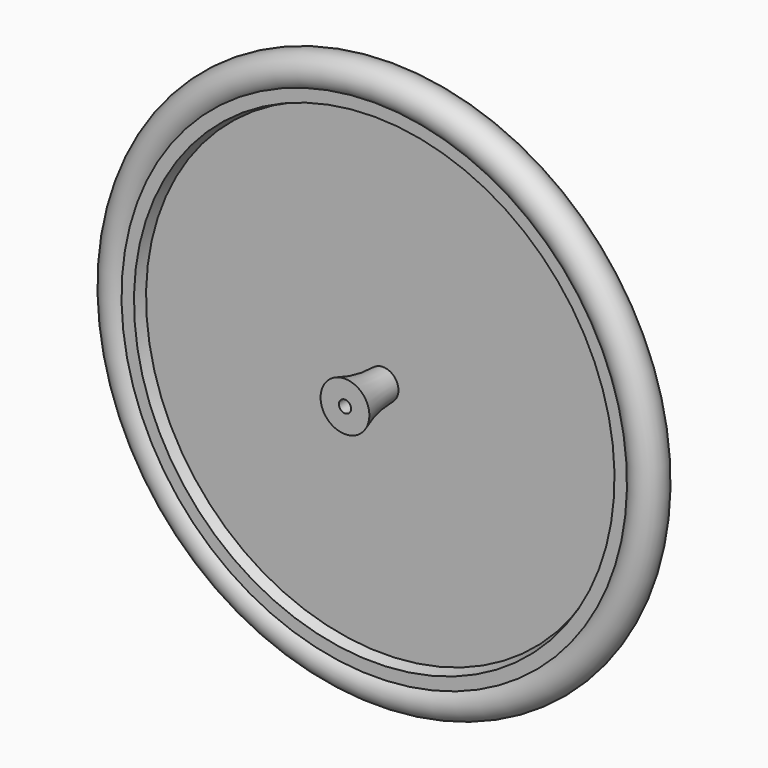
from build123d import *


with BuildPart() as f1:
    # F0 (on Right) → F1 (revolve)
    with BuildSketch(Plane.YZ):
        with BuildLine():
            Line((10, 197), (10, 207.202041))
            ThreePointArc((10, 207.202041), (0, 231), (-10, 207.202041))
            Line((-10, 207.202041), (-10, 197))
            Line((-10, 197), (-1, 194.3))
            Line((-1, 194.3), (-1, 12.658382))
            ThreePointArc((-1, 12.658382), (-20.826062, 14.597093), (-40, 20))
            Line((-40, 20), (-40, 5))
            Line((-40, 5), (40, 5))
            Line((40, 5), (45, 5))
            Line((45, 5), (45, 10))
            Line((45, 10), (40, 10))
            Line((40, 10), (40, 20))
            ThreePointArc((40, 20), (20.826062, 14.597093), (1, 12.658382))
            Line((1, 12.658382), (1, 194.3))
            Line((1, 194.3), (10, 197))
        make_face()
        with BuildLine():
            Line((10, 197), (10, 207.202041))
            ThreePointArc((10, 207.202041), (0, 231), (-10, 207.202041))
            Line((-10, 207.202041), (-10, 197))
            Line((-10, 197), (-1, 194.3))
            Line((-1, 194.3), (-1, 12.658382))
            ThreePointArc((-1, 12.658382), (-20.826062, 14.597093), (-40, 20))
            Line((-40, 20), (-40, 5))
            Line((-40, 5), (40, 5))
            Line((40, 5), (45, 5))
            Line((45, 5), (45, 10))
            Line((45, 10), (40, 10))
            Line((40, 10), (40, 20))
            ThreePointArc((40, 20), (20.826062, 14.597093), (1, 12.658382))
            Line((1, 12.658382), (1, 194.3))
            Line((1, 194.3), (10, 197))
        make_face()
    revolve(axis=Axis((0, 1.765828, 0), (0, 1, 0)))


solid = f1.part
